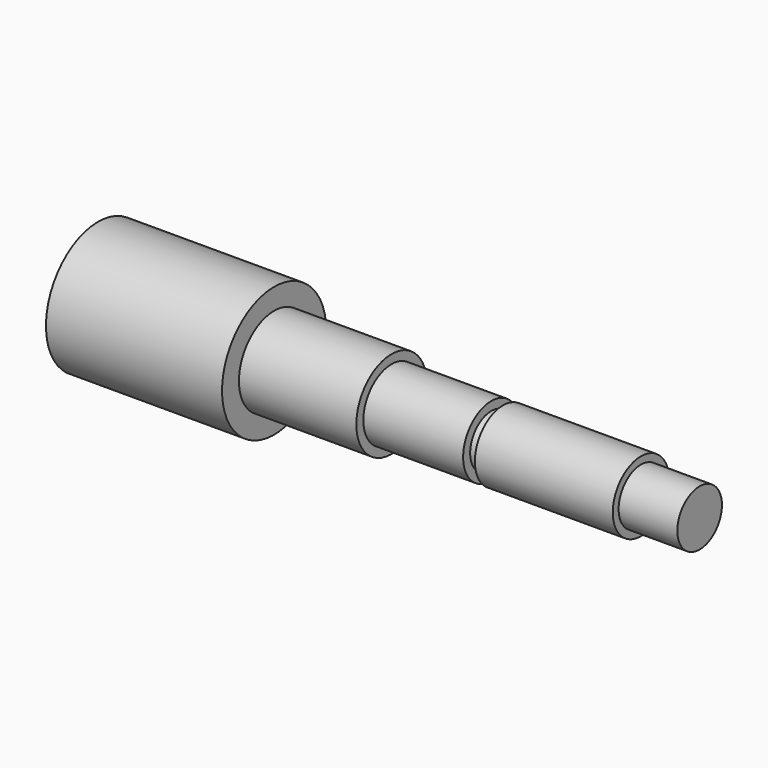
from build123d import *

# Parameters (mm, degrees)
F0_R      = 11.1
F1_DEPTH  = 30
F2_R      = 7.5
F3_DEPTH  = 20
F4_R      = 6
F5_DEPTH  = 17
F6_R      = 4.5
F7_DEPTH  = 2
F8_R      = 6
F9_DEPTH  = 23.5
F10_R     = 4.75
F11_DEPTH = 10


with BuildPart() as f1:
    # F0 (on Right) → F1 (new body)
    with BuildSketch(Plane.YZ):
        Circle(F0_R)
    extrude(amount=F1_DEPTH)

    # F2 (on face) → F3 (join)
    with BuildSketch(Plane.YZ.offset(30)):
        Circle(F2_R)
    extrude(amount=F3_DEPTH)

    # F4 (on face) → F5 (join)
    with BuildSketch(Plane.YZ.offset(50)):
        Circle(F4_R)
    extrude(amount=F5_DEPTH)

    # F6 (on face) → F7 (join)
    with BuildSketch(Plane.YZ.offset(67)):
        Circle(F6_R)
    extrude(amount=F7_DEPTH)

    # F8 (on face) → F9 (join)
    with BuildSketch(Plane.YZ.offset(69)):
        Circle(F8_R)
    extrude(amount=F9_DEPTH)

    # F10 (on face) → F11 (join)
    with BuildSketch(Plane.YZ.offset(92.5)):
        Circle(F10_R)
    extrude(amount=F11_DEPTH)


solid = f1.part
